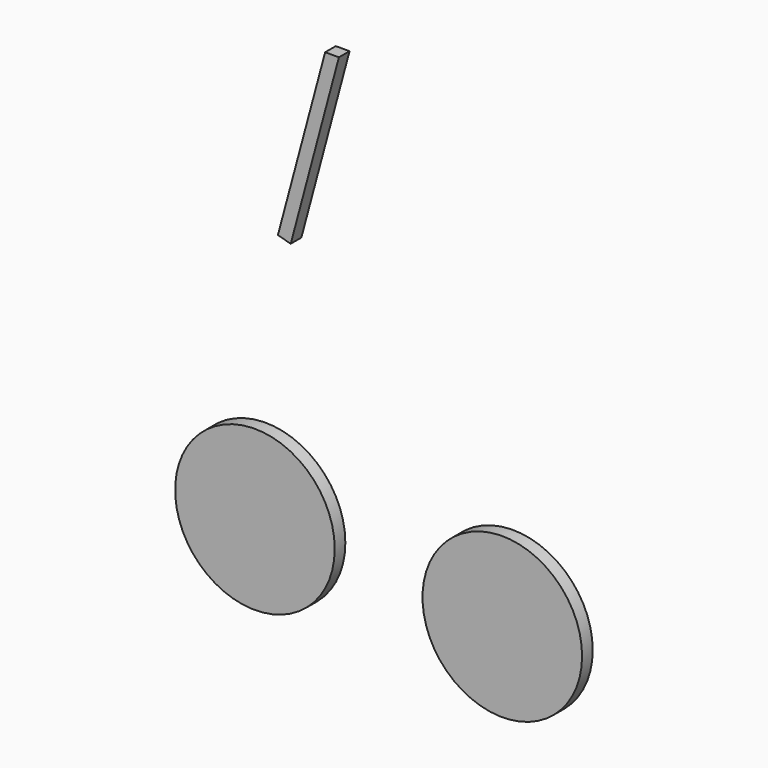
from build123d import *

# Parameters (mm, degrees)
F0_R     = 150
F1_DEPTH = 25


with BuildPart() as f1:
    # F0 (on Front) → F1 (new body)
    with BuildSketch(Plane.XZ):
        Polygon((44.641016, 580), (42.383346, 580), (-46.469561, 248.396437), (-22.321415, 241.925961), (68.26525, 580), align=None)
        with Locations((-89.635961, -236.168578)):
            Circle(F0_R)
        with Locations((375.411063, -262.414664)):
            Circle(F0_R)
    extrude(amount=F1_DEPTH)


solid = f1.part
